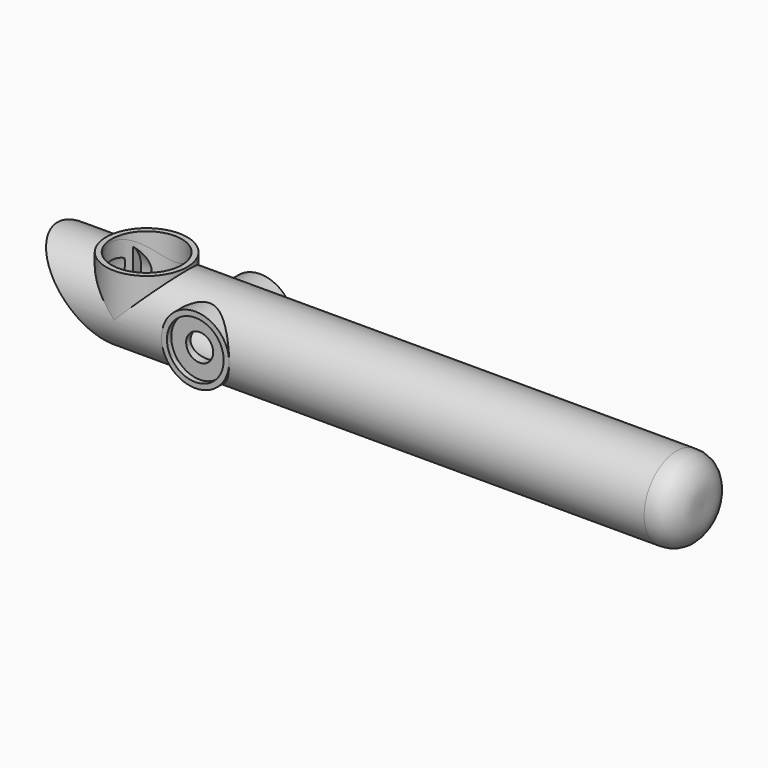
from build123d import *

# Parameters (mm, degrees)
F2_R      = 6.25
F2_R_2    = 5.25
F3_DEPTH  = 7.5
F4_R      = 5.25
F5_DEPTH  = 12.5
F6_R      = 5.25
F7_DEPTH  = 6.5
F8_R      = 2.5
F9_DEPTH  = 12.5
F10_R     = 7.5
F10_R_2   = 6.5
F11_DEPTH = 8
F12_R     = 6.5
F13_DEPTH = 25
F15_DEPTH = 12.5
F17_R     = 5.5
F18_DEPTH = 102
F20_R     = 6.25
F20_R_2   = 5.25
F21_DEPTH = 1
F22_R     = 5.5
F23_DEPTH = 2.4
F24_R     = 2.5
F25_DEPTH = 5


with BuildPart() as f1:
    # F0 (on Front) → F1 (revolve)
    with BuildSketch(Plane.XZ):
        with BuildLine():
            Line((120, 0), (0, 0))
            Line((0, 0), (0, -7.5))
            Line((0, -7.5), (115, -7.5))
            add(Edge.make_bspline(
                [(115, -7.5), (117.3478269305, -7.6648272053), (119.830806746, -4.8002464898), (120.1104384317, -3.0006025944), (120, 0)],
                knots=[0, 0, 0, 0, 0.4936257559, 1, 1, 1, 1], degree=3))
        make_face()
    revolve(axis=Axis((84.1494290085, 0, 0), (1, 0, 0)))

    # F2 (on Front) → F3 (join, symmetric)
    with BuildSketch(Plane.XZ):
        with Locations((32, 0)):
            Circle(F2_R)
        with Locations((32, 0)):
            Circle(F2_R_2, mode=Mode.SUBTRACT)
    extrude(amount=F3_DEPTH, both=True)

    # F4 (on Front) → F5 (cut, symmetric)
    with BuildSketch(Plane.XZ):
        with Locations((32, 0)):
            Circle(F4_R)
    extrude(amount=F5_DEPTH, both=True, mode=Mode.SUBTRACT)

    # F6 (on Front) → F7 (join, symmetric)
    with BuildSketch(Plane.XZ):
        with Locations((32, 0)):
            Circle(F6_R)
    extrude(amount=F7_DEPTH, both=True)

    # F8 (on Front) → F9 (cut, symmetric)
    with BuildSketch(Plane.XZ):
        with Locations((32, 0)):
            Circle(F8_R)
    extrude(amount=F9_DEPTH, both=True, mode=Mode.SUBTRACT)

    # F10 (on Top) → F11 (join)
    with BuildSketch(Plane.XY):
        with Locations((17, 0)):
            Circle(F10_R)
        with Locations((17, 0)):
            Circle(F10_R_2, mode=Mode.SUBTRACT)
    extrude(amount=F11_DEPTH)

    # F12 (on Top) → F13 (cut)
    with BuildSketch(Plane.XY):
        with Locations((17, 0)):
            Circle(F12_R)
    extrude(amount=F13_DEPTH, mode=Mode.SUBTRACT)

    # F14 (on Front) → F15 (cut, symmetric)
    with BuildSketch(Plane.XZ):
        Polygon((17, -9), (-3, 11), (-3, -9), align=None)
    extrude(amount=F15_DEPTH, both=True, mode=Mode.SUBTRACT)

    # F17 (on offset) → F18 (cut)
    with BuildSketch(Plane.YZ.offset(14)):
        Circle(F17_R)
    extrude(amount=F18_DEPTH, mode=Mode.SUBTRACT)

    # F20 (on offset) → F21 (join)
    with BuildSketch(Plane(origin=(4, 0, 4), x_dir=(0, -1, 0), z_dir=(-0.7071067812, 0, -0.7071067812))):
        with Locations((0, -5.5)):
            Circle(F20_R)
        with Locations((0, -5.5)):
            Circle(F20_R_2, mode=Mode.SUBTRACT)
    extrude(amount=F21_DEPTH)

    # F22 (on offset) → F23 (cut)
    with BuildSketch(Plane.YZ.offset(14)):
        with Locations((0, 1.5)):
            Circle(F22_R)
    extrude(amount=-F23_DEPTH, mode=Mode.SUBTRACT)

    # F24 (on offset) → F25 (cut)
    with BuildSketch(Plane(origin=(4, 0, 4), x_dir=(0, -1, 0), z_dir=(-0.7071067812, 0, -0.7071067812))):
        with Locations((0, -5.5)):
            Circle(F24_R)
    extrude(amount=-F25_DEPTH, mode=Mode.SUBTRACT)


solid = f1.part
